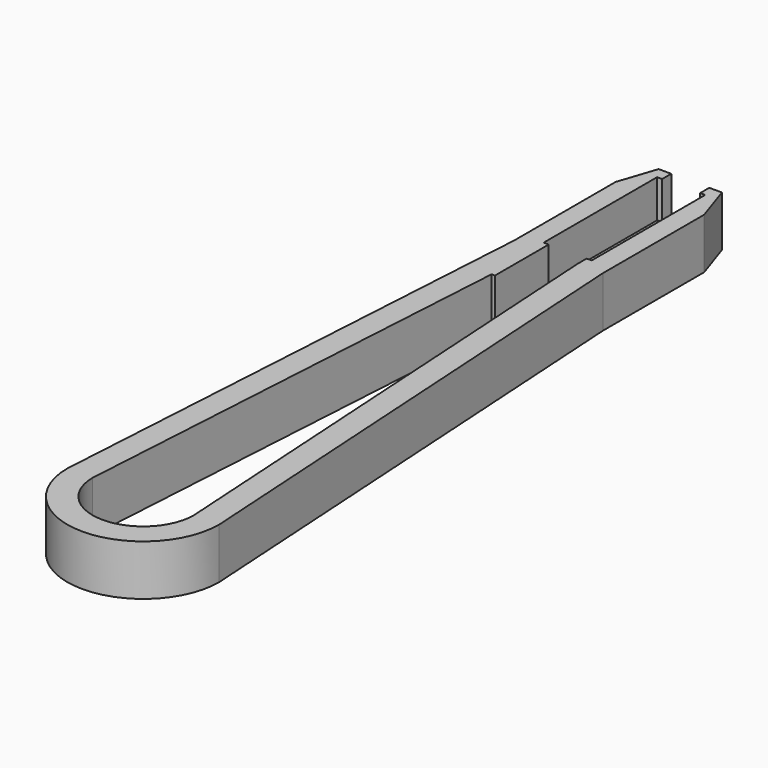
from build123d import *

# Parameters (mm, degrees)
F0_W       = 0.4
F0_H       = 11.2
F1_DEPTH   = 1
F2_DEPTH   = 4
F3_SIZE2   = 1
F3_SIZE    = 3
F3_2_SIZE2 = 1
F3_2_SIZE  = 3
F4_SIZE2   = 3
F4_SIZE    = 1
F4_2_SIZE2 = 3
F4_2_SIZE  = 1


with BuildPart() as f1:
    # F0 (on Top) → F1 (new body)
    with BuildSketch(Plane.XY):
        with BuildLine():
            ThreePointArc((4, 0), (0, -4), (-4, 0))
            Line((-4, 0), (-1.7680275698, 36.6043488656))
            Line((-1.7680275698, 36.6043488656), (-1.5, 36.5880057216))
            Line((-1.5, 36.5880057216), (-1.5, 41.9000011325))
            Line((-1.5, 41.9000011325), (-1.9, 41.9000011325))
            Line((-1.9, 41.9000011325), (-1.9, 53.1000011325))
            Line((-1.9, 53.1000011325), (-1.5, 53.1000011325))
            Line((-1.5, 53.1000011325), (-1.5, 54.0000011325))
            Line((-1.5, 54.0000011325), (-3.5, 54.0000011325))
            Line((-3.5, 54.0000011325), (-3.5, 41.0000011325))
            Line((-3.5, 41.0000011325), (-6, 0))
            ThreePointArc((-6, 0), (0, -6), (6, 0))
            Line((6, 0), (3.5, 41.0000011325))
            Line((3.5, 41.0000011325), (3.5, 54.0000011325))
            Line((3.5, 54.0000011325), (1.5, 54.0000011325))
            Line((1.5, 54.0000011325), (1.5, 53.1000011325))
            Line((1.5, 53.1000011325), (1.9, 53.1000011325))
            Line((1.9, 53.1000011325), (1.9, 41.9000011325))
            Line((1.9, 41.9000011325), (1.5, 41.9000011325))
            Line((1.5, 41.9000011325), (1.5, 41.0000011325))
            Line((1.5, 41.0000011325), (4, 0))
        make_face()
        with Locations((1.7, 47.5000011325)):
            Rectangle(F0_W, F0_H)
        with Locations((-1.7, 47.5000011325)):
            Rectangle(F0_W, F0_H)
    extrude(amount=F1_DEPTH)

    # F3#2
    f3_2_edges = [f1.edges().sort_by_distance(p)[0] for p in [
        (-3.5, 54.000001, 0.5),
    ]]
    f3_2_side = f1.faces().sort_by_distance((-3.5, 47.500001, 0.5))[0]
    chamfer(f3_2_edges, length=F3_2_SIZE, length2=F3_2_SIZE2, reference=f3_2_side)

    # F4
    f4_edges = [f1.edges().sort_by_distance(p)[0] for p in [
        (3.5, 54.000001, 0.5),
    ]]
    f4_side = f1.faces().sort_by_distance((2.5, 54.000001, 0.5))[0]
    chamfer(f4_edges, length=F4_SIZE, length2=F4_SIZE2, reference=f4_side)


with BuildPart() as f2:
    # F0 (on Top) → F2 (new body)
    with BuildSketch(Plane.XY):
        with BuildLine():
            ThreePointArc((4, 0), (0, -4), (-4, 0))
            Line((-4, 0), (-1.7680275698, 36.6043488656))
            Line((-1.7680275698, 36.6043488656), (-1.5, 36.5880057216))
            Line((-1.5, 36.5880057216), (-1.5, 41.9000011325))
            Line((-1.5, 41.9000011325), (-1.9, 41.9000011325))
            Line((-1.9, 41.9000011325), (-1.9, 53.1000011325))
            Line((-1.9, 53.1000011325), (-1.5, 53.1000011325))
            Line((-1.5, 53.1000011325), (-1.5, 54.0000011325))
            Line((-1.5, 54.0000011325), (-3.5, 54.0000011325))
            Line((-3.5, 54.0000011325), (-3.5, 41.0000011325))
            Line((-3.5, 41.0000011325), (-6, 0))
            ThreePointArc((-6, 0), (0, -6), (6, 0))
            Line((6, 0), (3.5, 41.0000011325))
            Line((3.5, 41.0000011325), (3.5, 54.0000011325))
            Line((3.5, 54.0000011325), (1.5, 54.0000011325))
            Line((1.5, 54.0000011325), (1.5, 53.1000011325))
            Line((1.5, 53.1000011325), (1.9, 53.1000011325))
            Line((1.9, 53.1000011325), (1.9, 41.9000011325))
            Line((1.9, 41.9000011325), (1.5, 41.9000011325))
            Line((1.5, 41.9000011325), (1.5, 41.0000011325))
            Line((1.5, 41.0000011325), (4, 0))
        make_face()
    extrude(amount=F2_DEPTH)

    # F3
    f3_edges = [f2.edges().sort_by_distance(p)[0] for p in [
        (-3.5, 54.000001, 2),
    ]]
    f3_side = f2.faces().sort_by_distance((-3.5, 47.500001, 2))[0]
    chamfer(f3_edges, length=F3_SIZE, length2=F3_SIZE2, reference=f3_side)

    # F4#2
    f4_2_edges = [f2.edges().sort_by_distance(p)[0] for p in [
        (3.5, 54.000001, 2),
    ]]
    f4_2_side = f2.faces().sort_by_distance((2.5, 54.000001, 2))[0]
    chamfer(f4_2_edges, length=F4_2_SIZE, length2=F4_2_SIZE2, reference=f4_2_side)


solid = Compound([f1.part, f2.part])
